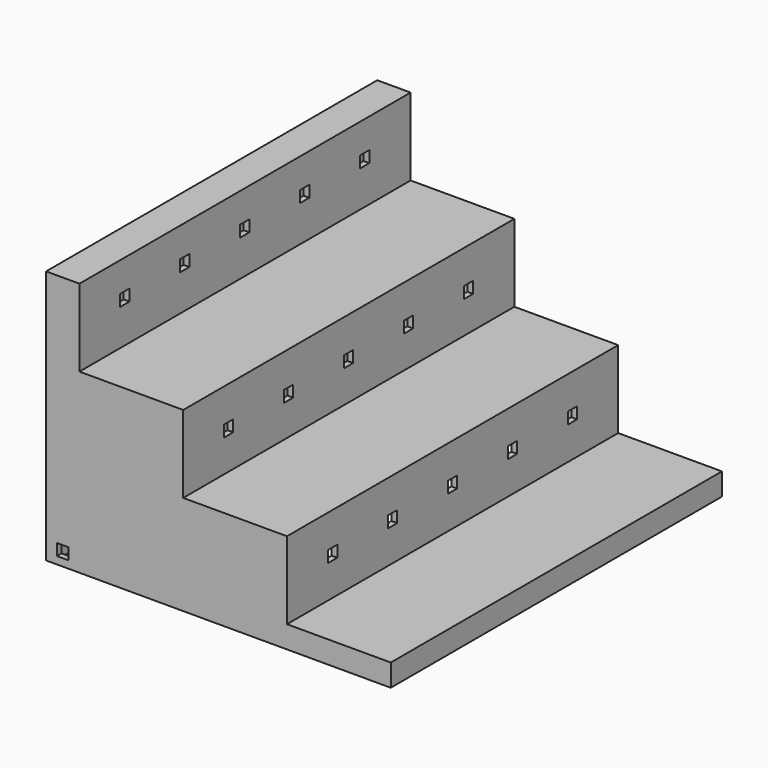
from build123d import *

# Parameters (mm, degrees)
F0_W      = 14.6957188845
F0_H      = 34.1013113993
F0_W_2    = 45.72
F0_H_2    = 34.1122
F0_H_3    = 9.7971446812
F0_W_3    = 45.7200031853
F1_DEPTH  = 182.372
F2_T      = -2.54
F3_W      = 5.08
F3_H      = 2.54
F4_DEPTH  = 25.4
F5_W      = 5.08
F5_H      = 5.08
F6_DEPTH  = 25.4
F7_W      = 5.08
F7_H      = 2.54
F8_DEPTH  = 25.4
F9_W      = 5.08
F9_H      = 2.54
F10_DEPTH = 10.3632


with BuildPart() as f1:
    # F0 (on Front) → F1 (new body)
    with BuildSketch(Plane.XZ):
        with Locations((-68.5800015926, 39.0107723406)):
            Rectangle(F0_W, F0_H)
        with Locations((-38.3721421504, 4.9040166409)):
            Rectangle(F0_W_2, F0_H_2)
        with Locations((-68.5800015926, 4.9040166409)):
            Rectangle(F0_W, F0_H_2)
        with Locations((-68.5800015926, -29.2081833591)):
            Rectangle(F0_W, F0_H_2)
        with Locations((-68.5800015926, -51.1628556997)):
            Rectangle(F0_W, F0_H_3)
        with Locations((-38.3721421504, -29.2081833591)):
            Rectangle(F0_W_2, F0_H_2)
        with Locations((-38.3721421504, -51.1628556997)):
            Rectangle(F0_W_2, F0_H_3)
        with Locations((7.3478594422, -51.1628556997)):
            Rectangle(F0_W_3, F0_H_3)
        with Locations((53.0678610349, -51.1628556997)):
            Rectangle(F0_W_2, F0_H_3)
        with Locations((7.3478594422, -29.2081833591)):
            Rectangle(F0_W_3, F0_H_2)
    extrude(amount=F1_DEPTH)

    # F2
    f2_openings = [f1.faces().sort_by_distance(p)[0] for p in [
        (0, -91.186, -56.061428),
    ]]
    offset(amount=F2_T, openings=f2_openings, kind=Kind.INTERSECTION)

    # F3 (on face) → F4 (cut)
    with BuildSketch(Plane.YZ.offset(30.2078610349)):
        with Locations((-157.226, -27.9381833591)):
            Rectangle(F3_W, F3_H)
        with Locations((-157.226, -30.4781833591)):
            Rectangle(F3_W, F3_H)
        with Locations((-124.206, -30.4781833591)):
            Rectangle(F3_W, F3_H)
        with Locations((-124.206, -27.9381833591)):
            Rectangle(F3_W, F3_H)
        with Locations((-91.186, -30.4781833591)):
            Rectangle(F3_W, F3_H)
        with Locations((-91.186, -27.9381833591)):
            Rectangle(F3_W, F3_H)
        with Locations((-58.166, -30.4781833591)):
            Rectangle(F3_W, F3_H)
        with Locations((-58.166, -27.9381833591)):
            Rectangle(F3_W, F3_H)
        with Locations((-25.146, -27.9381833591)):
            Rectangle(F3_W, F3_H)
        with Locations((-25.146, -30.4781833591)):
            Rectangle(F3_W, F3_H)
    extrude(amount=-F4_DEPTH, mode=Mode.SUBTRACT)

    # F5 (on face) → F6 (cut)
    with BuildSketch(Plane.XZ.offset(182.372)):
        with Locations((-68.675249815, -50.2550639212)):
            Rectangle(F5_W, F5_H)
    extrude(amount=-F6_DEPTH, mode=Mode.SUBTRACT)

    # F7 (on face) → F8 (cut)
    with BuildSketch(Plane.YZ.offset(-15.5121421504)):
        with Locations((-157.3796552205, 5.9143330357)):
            Rectangle(F7_W, F7_H)
        with Locations((-157.3796552205, 3.3743330357)):
            Rectangle(F7_W, F7_H)
        with Locations((-124.3596552205, 5.9143330357)):
            Rectangle(F7_W, F7_H)
        with Locations((-124.3596552205, 3.3743330357)):
            Rectangle(F7_W, F7_H)
        with Locations((-91.3396552205, 5.9143330357)):
            Rectangle(F7_W, F7_H)
        with Locations((-91.3396552205, 3.3743330357)):
            Rectangle(F7_W, F7_H)
        with Locations((-58.3196552205, 5.9143330357)):
            Rectangle(F7_W, F7_H)
        with Locations((-58.3196552205, 3.3743330357)):
            Rectangle(F7_W, F7_H)
        with Locations((-25.2996552205, 5.9143330357)):
            Rectangle(F7_W, F7_H)
        with Locations((-25.2996552205, 3.3743330357)):
            Rectangle(F7_W, F7_H)
    extrude(amount=-F8_DEPTH, mode=Mode.SUBTRACT)

    # F9 (on face) → F10 (cut)
    with BuildSketch(Plane.YZ.offset(-61.2321421504)):
        with Locations((-157.3776137614, 41.7377093029)):
            Rectangle(F9_W, F9_H)
        with Locations((-157.3776137614, 39.1977093029)):
            Rectangle(F9_W, F9_H)
        with Locations((-124.3576137614, 41.7377093029)):
            Rectangle(F9_W, F9_H)
        with Locations((-124.3576137614, 39.1977093029)):
            Rectangle(F9_W, F9_H)
        with Locations((-91.3376137614, 41.7377093029)):
            Rectangle(F9_W, F9_H)
        with Locations((-91.3376137614, 39.1977093029)):
            Rectangle(F9_W, F9_H)
        with Locations((-58.3176137614, 41.7377093029)):
            Rectangle(F9_W, F9_H)
        with Locations((-58.3176137614, 39.1977093029)):
            Rectangle(F9_W, F9_H)
        with Locations((-25.2976137614, 41.7377093029)):
            Rectangle(F9_W, F9_H)
        with Locations((-25.2976137614, 39.1977093029)):
            Rectangle(F9_W, F9_H)
    extrude(amount=-F10_DEPTH, mode=Mode.SUBTRACT)


solid = f1.part
